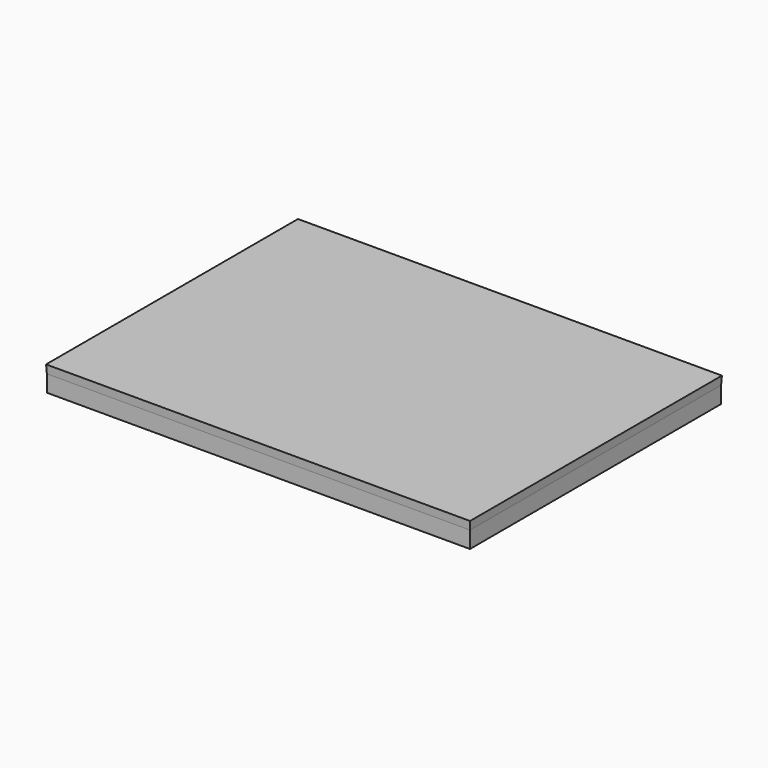
from build123d import *

# Parameters (mm, degrees)
F0_W     = 76.1363953352
F0_H     = 56.5012171865
F1_DEPTH = 3
F2_W     = 76.1363953352
F2_H     = 56.5012171865
F3_DEPTH = 1.5
F3_TAPER = -3


with BuildPart() as f1:
    # F0 (on Top) → F1 (new body)
    with BuildSketch(Plane.XY):
        with Locations((-38.0681976676, 28.2506085932)):
            Rectangle(F0_W, F0_H)
    extrude(amount=F1_DEPTH)


with BuildPart() as f3:
    # F2 (on face) → F3 (new body)
    with BuildSketch(Plane.XY.offset(3)):
        with Locations((-38.0681976676, 28.2506085932)):
            Rectangle(F2_W, F2_H)
    extrude(amount=F3_DEPTH, taper=F3_TAPER)


solid = Compound([f1.part, f3.part])
